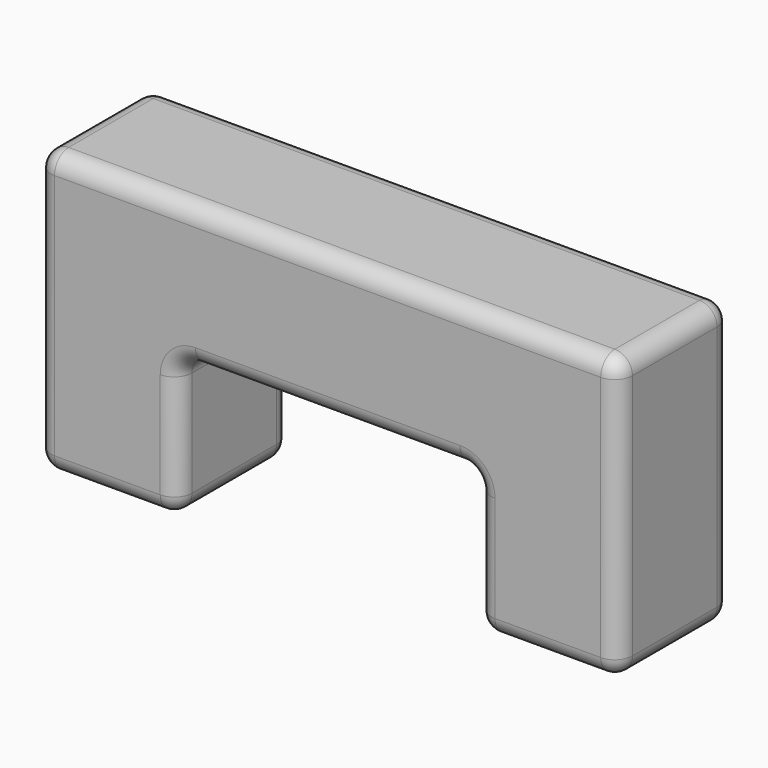
from build123d import *

# Parameters (mm, degrees)
F0_W     = 33
F0_H     = 16
F1_DEPTH = 8
F2_W     = 17
F2_H     = 8
F3_DEPTH = 25
F4_R     = 1


with BuildPart() as f1:
    # F0 (on Front) → F1 (new body)
    with BuildSketch(Plane.XZ):
        Rectangle(F0_W, F0_H)
    extrude(amount=F1_DEPTH)

    # F2 (on face) → F3 (cut)
    with BuildSketch(Plane.XZ.offset(8)):
        with Locations((0, -4)):
            Rectangle(F2_W, F2_H)
    extrude(amount=-F3_DEPTH, mode=Mode.SUBTRACT)

    # F4
    f4_edges = [f1.edges().sort_by_distance(p)[0] for p in [
        (16.5, -8, 0),
        (12.5, -8, -8),
        (8.5, -8, -4),
        (0, -8, 0),
        (-8.5, -8, -4),
        (-12.5, -8, -8),
        (-16.5, -8, 0),
        (0, -8, 8),
        (-8.5, 0, -4),
        (16.5, 0, 0),
        (12.5, 0, -8),
        (8.5, 0, -4),
        (0, 0, 0),
        (-12.5, 0, -8),
        (-16.5, 0, 0),
        (0, 0, 8),
        (-8.5, -4, 0),
        (8.5, -4, 0),
        (-8.5, -4, -8),
        (-16.5, -4, -8),
        (16.5, -4, -8),
        (8.5, -4, -8),
        (16.5, -4, 8),
        (-16.5, -4, 8),
    ]]
    fillet(f4_edges, radius=F4_R)


solid = f1.part
